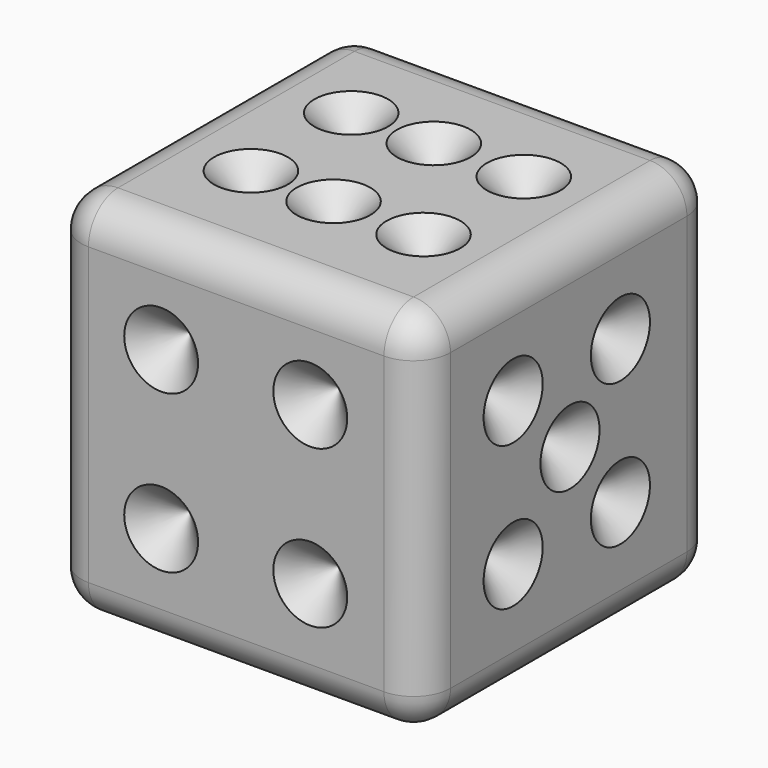
from build123d import *

# Parameters (mm, degrees)
F0_W            = 12.7
F0_H            = 12.7
F1_DEPTH        = 12.7
F2_R            = 1.27
F4_D            = 0.0254
F4_DEPTH        = 2.54
F4_CSINK_D      = 2.54
F4_CSINK_ANGLE  = 90
F4_TIP          = 0.0076309299
F6_D            = 0.0254
F6_DEPTH        = 2.54
F6_CSINK_D      = 2.54
F6_CSINK_ANGLE  = 90
F6_TIP          = 0.0076309299
F8_D            = 0.0254
F8_DEPTH        = 2.54
F8_CSINK_D      = 2.54
F8_CSINK_ANGLE  = 90
F8_TIP          = 0.0076309299
F10_D           = 0.0254
F10_DEPTH       = 2.54
F10_CSINK_D     = 2.54
F10_CSINK_ANGLE = 90
F10_TIP         = 0.0076309299
F12_D           = 0.0254
F12_DEPTH       = 2.54
F12_CSINK_D     = 2.54
F12_CSINK_ANGLE = 90
F12_TIP         = 0.0076309299
F14_D           = 0.0254
F14_DEPTH       = 2.54
F14_CSINK_D     = 2.54
F14_CSINK_ANGLE = 90
F14_TIP         = 0.0076309299


with BuildPart() as f1:
    # F0 (on Front) → F1 (new body)
    with BuildSketch(Plane.XZ):
        with Locations((-42.0982632786, 27.0269586705)):
            Rectangle(F0_W, F0_H)
    extrude(amount=F1_DEPTH)

    # F2
    f2_edges = [f1.edges().sort_by_distance(p)[0] for p in [
        (-48.448263, -6.35, 33.376959),
        (-42.098263, -12.7, 33.376959),
        (-35.748263, -6.35, 33.376959),
        (-35.748263, -12.7, 27.026959),
        (-48.448263, -12.7, 27.026959),
        (-42.098263, 0, 33.376959),
        (-42.098263, -12.7, 20.676959),
        (-48.448263, 0, 27.026959),
        (-42.098263, 0, 20.676959),
        (-35.748263, 0, 27.026959),
        (-48.448263, -6.35, 20.676959),
        (-35.748263, -6.35, 20.676959),
    ]]
    fillet(f2_edges, radius=F2_R)

    # F4
    with Locations(Plane.YZ.offset(-35.7482632786)):
        with Locations((-8.7381051853, 29.5539088547), (-4.1285129264, 29.5539088547), (-6.2944656238, 27.1658077836), (-4.1285129264, 24.6110949665), (-8.7381051853, 24.6110949665)):
            CounterSinkHole(F4_D / 2, F4_CSINK_D / 2, depth=F4_DEPTH, counter_sink_angle=F4_CSINK_ANGLE)
            with Locations((0, 0, -(F4_DEPTH + F4_TIP / 2))):  # 118° drill point
                Cone(0, F4_D / 2, F4_TIP, mode=Mode.SUBTRACT)

    # F6
    with Locations(Plane.XZ.offset(12.7)):
        with Locations((-44.6792058647, 29.8087988049), (-39.5522639155, 29.8087988049), (-39.5522639155, 24.3950355798), (-44.6792058647, 24.3950355798)):
            CounterSinkHole(F6_D / 2, F6_CSINK_D / 2, depth=F6_DEPTH, counter_sink_angle=F6_CSINK_ANGLE)
            with Locations((0, 0, -(F6_DEPTH + F6_TIP / 2))):  # 118° drill point
                Cone(0, F6_D / 2, F6_TIP, mode=Mode.SUBTRACT)

    # F8
    with Locations(Plane(origin=(-48.4482632786, 0, 0), x_dir=(0, -1, 0), z_dir=(-1, 0, 0))):
        with Locations((3.9822733961, 29.2156673968), (8.6296331137, 24.7388519347)):
            CounterSinkHole(F8_D / 2, F8_CSINK_D / 2, depth=F8_DEPTH, counter_sink_angle=F8_CSINK_ANGLE)
            with Locations((0, 0, -(F8_DEPTH + F8_TIP / 2))):  # 118° drill point
                Cone(0, F8_D / 2, F8_TIP, mode=Mode.SUBTRACT)

    # F10
    with Locations(Plane(origin=(0, 0, 0), x_dir=(-1, 0, 0), z_dir=(0, 1, 0))):
        with Locations((45.0090281665, 29.963389039), (42.2125160694, 27.2385813296), (39.5235605538, 24.4779214263)):
            CounterSinkHole(F10_D / 2, F10_CSINK_D / 2, depth=F10_DEPTH, counter_sink_angle=F10_CSINK_ANGLE)
            with Locations((0, 0, -(F10_DEPTH + F10_TIP / 2))):  # 118° drill point
                Cone(0, F10_D / 2, F10_TIP, mode=Mode.SUBTRACT)

    # F12
    with Locations(Plane.XY.offset(33.3769586705)):
        with Locations((-39.0782207251, -4.1185999289), (-42.1711280942, -4.1185999289), (-45.0105182827, -4.1185999289), (-45.0105182827, -8.4283910692), (-42.1711280942, -8.4283910692), (-39.0782207251, -8.4283910692)):
            CounterSinkHole(F12_D / 2, F12_CSINK_D / 2, depth=F12_DEPTH, counter_sink_angle=F12_CSINK_ANGLE)
            with Locations((0, 0, -(F12_DEPTH + F12_TIP / 2))):  # 118° drill point
                Cone(0, F12_D / 2, F12_TIP, mode=Mode.SUBTRACT)

    # F14
    with Locations(Plane(origin=(0, 0, 20.6769586705), x_dir=(1, 0, 0), z_dir=(0, 0, -1))):
        with Locations((-42.1936511993, 6.4518465661)):
            CounterSinkHole(F14_D / 2, F14_CSINK_D / 2, depth=F14_DEPTH, counter_sink_angle=F14_CSINK_ANGLE)
            with Locations((0, 0, -(F14_DEPTH + F14_TIP / 2))):  # 118° drill point
                Cone(0, F14_D / 2, F14_TIP, mode=Mode.SUBTRACT)


solid = f1.part
